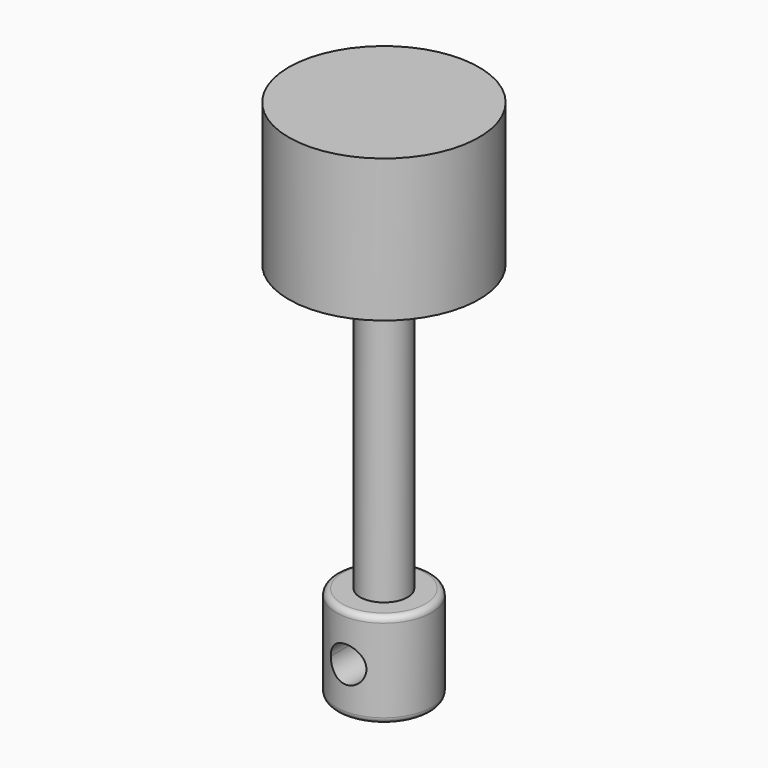
from build123d import *

# Parameters (mm, degrees)
F2_D     = 3
F2_DEPTH = 8.001
F3_D     = 3


with BuildPart() as f1:
    # F0 (on Front) → F1 (revolve)
    with BuildSketch(Plane.XZ):
        with BuildLine():
            Line((-23.4526408911, -24.7851572111), (-23.4526408911, 19.2148427889))
            Line((-23.4526408911, 19.2148427889), (-31.4526408911, 19.2148427889))
            Line((-31.4526408911, 19.2148427889), (-31.4526408911, 7.2148427889))
            Line((-31.4526408911, 7.2148427889), (-25.4526408911, 7.2148427889))
            Line((-25.4526408911, 7.2148427889), (-25.4526408911, -16.7851572111))
            Line((-25.4526408911, -16.7851572111), (-26.9526408911, -16.7851572111))
            ThreePointArc((-26.9526408911, -16.7851572111), (-27.3061942817, -16.9316038205), (-27.4526408911, -17.2851572111))
            Line((-27.4526408911, -17.2851572111), (-27.4526408911, -24.2851572111))
            ThreePointArc((-27.4526408911, -24.2851572111), (-27.3061942817, -24.6387106017), (-26.9526408911, -24.7851572111))
            Line((-26.9526408911, -24.7851572111), (-23.4526408911, -24.7851572111))
        make_face()
    revolve(axis=Axis((-23.4526408911, 0, -2.7851572111), (0, 0, -1)))

    # F2 (through all, one way)
    with BuildSketch(Plane(origin=(0, 0, 0), x_dir=(1, 0, 0), z_dir=(0, 1, 0))):
        with Locations((-23.4526408911, 20.7851572111)):
            Circle(F2_D / 2)
    extrude(amount=-F2_DEPTH, mode=Mode.SUBTRACT)

    # F3 (through all)
    with Locations(Plane.XZ):
        with Locations((-23.4526408911, -20.7851572111)):
            Hole(F3_D / 2)


solid = f1.part
